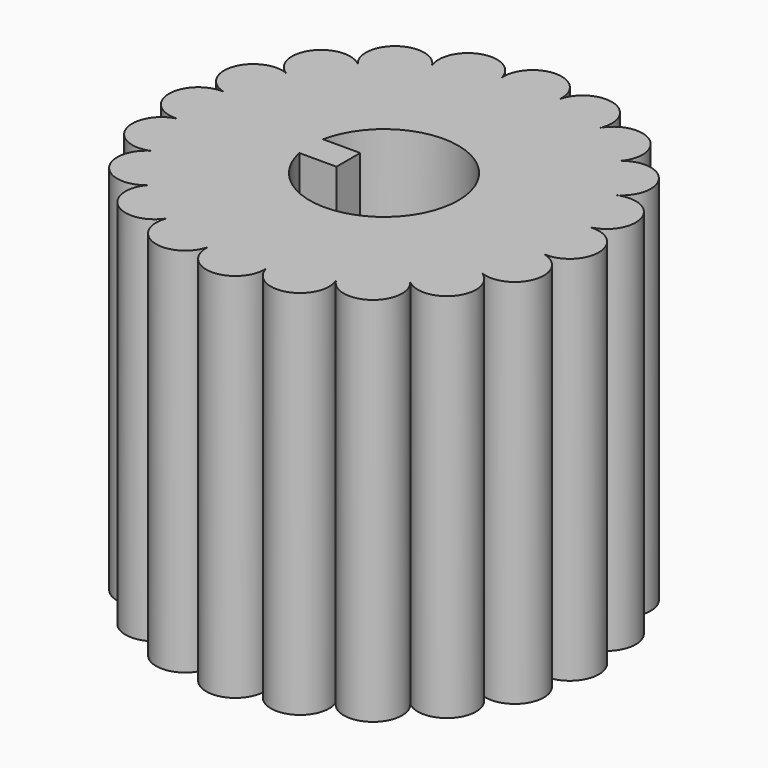
from build123d import *

# Parameters (mm, degrees)
SKETCH_R           = 5
PAD_DEPTH          = 10
PAD001_DEPTH       = 10
POLARPATTERN_COUNT = 20
SKETCH002_R        = 2
POCKET_DEPTH       = 7
PAD002_DEPTH       = 1.5
PAD003_DEPTH       = 5.5
SKETCH005_W        = 4
SKETCH005_H        = 1
POCKET001_DEPTH    = 0.5


with BuildPart() as part:
    # Sketch → Pad (new body)
    with BuildSketch(Plane.XY):
        Circle(SKETCH_R)
    extrude(amount=PAD_DEPTH)

    # Sketch001 → Pad001 (join)
    with BuildSketch(Plane.XY):
        with BuildLine():
            ThreePointArc((0.782172, 4.938442), (0.392295, 4.984587), (0, 5))
            ThreePointArc((0, 5), (-0.392295, 4.984587), (-0.782172, 4.938442))
            ThreePointArc((0.782172, 4.938442), (0, 5.784591), (-0.782172, 4.938442))
        make_face()
    pad001 = extrude(amount=PAD001_DEPTH)

    # PolarPattern: Pad001 ×20 about axis
    polarpattern_axis = Axis((0, 0, 0), (0, 0, 1))
    for i in range(1, POLARPATTERN_COUNT):
        add(pad001.rotate(polarpattern_axis, i * 360 / POLARPATTERN_COUNT))

    # Sketch002 (on Face62 of PolarPattern) → Pocket (cut)
    with BuildSketch(Plane.XY.offset(10)):
        Circle(SKETCH002_R)
    extrude(amount=-POCKET_DEPTH, mode=Mode.SUBTRACT)

    # Sketch003 (on Face64 of Pocket) → Pad002 (join)
    with BuildSketch(Plane.XY.offset(3)):
        with BuildLine():
            Line((-1.959592, 0.4), (1.959592, 0.4))
            ThreePointArc((1.959592, -0.4), (2, 0), (1.959592, 0.4))
            Line((1.959592, -0.4), (-1.959592, -0.4))
            ThreePointArc((-1.959592, 0.4), (-2, 0), (-1.959592, -0.4))
        make_face()
    extrude(amount=PAD002_DEPTH)

    # Sketch004 (on Face64 of Pad002) → Pad003 (join)
    with BuildSketch(Plane.XY.offset(4.5)):
        with BuildLine():
            Line((-1.959592, -0.4), (-0.959592, -0.4))
            Line((-0.959592, -0.4), (-0.959592, 0.4))
            Line((-0.959592, 0.4), (-1.959592, 0.4))
            ThreePointArc((-1.959592, 0.4), (-2, 0), (-1.959592, -0.4))
        make_face()
    extrude(amount=PAD003_DEPTH)

    # Sketch005 (on Face1 of Pad003) → Pocket001 (cut)
    with BuildSketch(Plane(origin=(0, 0, 0), x_dir=(1, 0, 0), z_dir=(0, 0, -1))):
        with Locations((-2, 0)):
            Rectangle(SKETCH005_W, SKETCH005_H)
    extrude(amount=-POCKET001_DEPTH, mode=Mode.SUBTRACT)


solid = part.part
